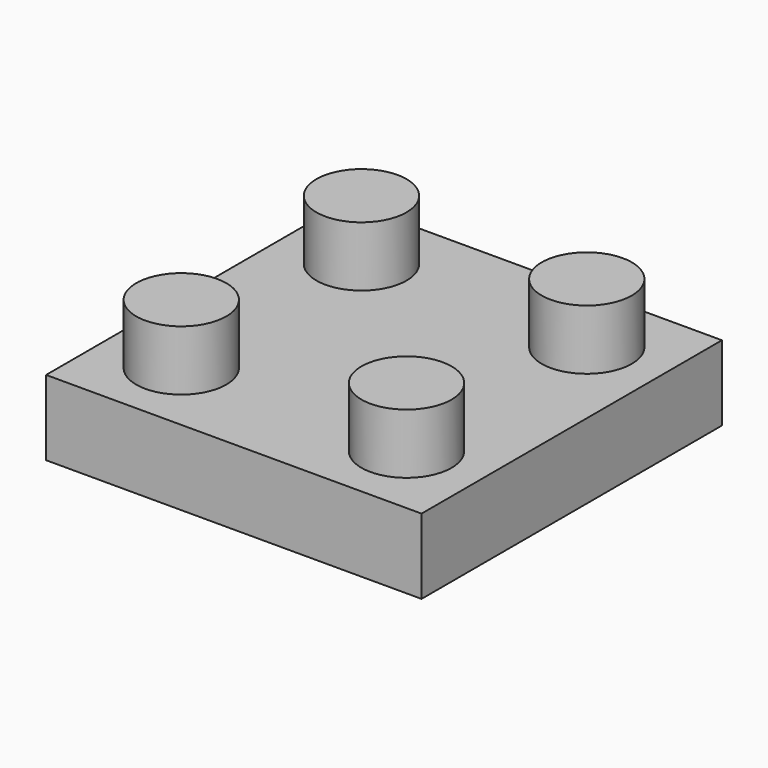
from build123d import *

# Parameters (mm, degrees)
F0_W     = 63.5
F0_H     = 63.5
F0_R     = 7.62
F1_DEPTH = 12.7
F2_R     = 7.62
F3_DEPTH = 10.16


with BuildPart() as f1:
    # F0 (on Top) → F1 (new body)
    with BuildSketch(Plane.XY):
        with Locations((31.75, 31.75)):
            Rectangle(F0_W, F0_H)
        with Locations((12.7, 12.7)):
            Circle(F0_R, mode=Mode.SUBTRACT)
        with Locations((50.8, 12.7)):
            Circle(F0_R, mode=Mode.SUBTRACT)
        with Locations((12.7, 50.8)):
            Circle(F0_R, mode=Mode.SUBTRACT)
        with Locations((50.8, 50.8)):
            Circle(F0_R, mode=Mode.SUBTRACT)
    extrude(amount=F1_DEPTH)


with BuildPart() as f3:
    # F2 (on face) → F3 (new body)
    with BuildSketch(Plane.XY.offset(12.7)):
        with Locations((12.7, 50.8)):
            Circle(F2_R)
        with Locations((12.7, 12.7)):
            Circle(F2_R)
        with Locations((50.8, 12.7)):
            Circle(F2_R)
        with Locations((50.8, 50.8)):
            Circle(F2_R)
    extrude(amount=F3_DEPTH)


solid = Compound([f1.part, f3.part])
